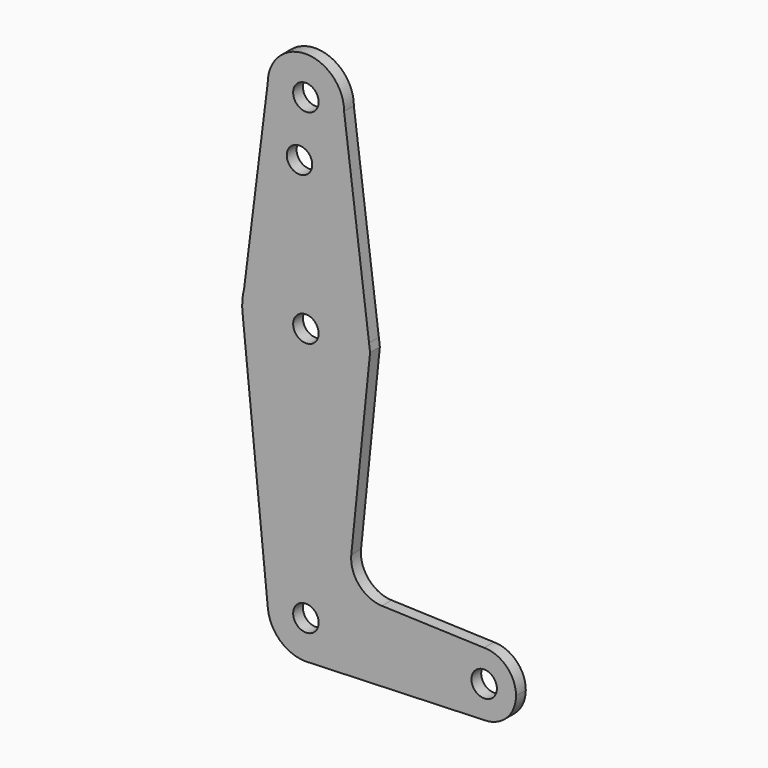
from build123d import *

# Parameters (mm, degrees)
F0_R     = 3.175
F1_DEPTH = 3.048


with BuildPart() as f1:
    # F0 (on Front) → F1 (new body)
    with BuildSketch(Plane.XZ):
        with BuildLine():
            ThreePointArc((-9.525, 114.3), (0, 104.775), (9.525, 114.3))
            ThreePointArc((9.525, 114.3), (0, 123.825), (-9.525, 114.3))
        make_face()
        with Locations((0, 114.3)):
            Circle(F0_R, mode=Mode.SUBTRACT)
        with BuildLine():
            Line((15.747457, 65.508289), (9.525, 114.3))
            ThreePointArc((9.525, 114.3), (0, 104.775), (-9.525, 114.3))
            Line((-9.525, 114.3), (-15.386538, 67.407692))
            ThreePointArc((-15.386538, 67.407692), (0.966695, 79.34554), (15.747457, 65.508289))
        make_face()
        with Locations((-1.5875, 100.0252)):
            Circle(F0_R, mode=Mode.SUBTRACT)
        with BuildLine():
            Line((16.003576, 63.5), (15.747457, 65.508289))
            ThreePointArc((15.747457, 65.508289), (15.843082, 64.506167), (15.875, 63.5))
            ThreePointArc((15.875, 63.5), (0.794747, 47.644906), (-15.795426, 61.9125))
            Line((-15.795426, 61.9125), (-9.477255, -0.9525))
            ThreePointArc((-9.477255, -0.9525), (-0.476848, 9.513056), (9.525, 0))
            ThreePointArc((9.525, 0), (6.97129, -6.490511), (0.67949, -9.500732))
            Line((0.67949, -9.500732), (44.45, -7.9375))
            ThreePointArc((44.45, -7.9375), (36.5125, 0), (44.45, 7.9375))
            Line((44.45, 7.9375), (18.946068, 8.848355))
            ThreePointArc((18.946068, 8.848355), (13.235613, 11.570929), (11.32068, 17.600418))
            Line((11.32068, 17.600418), (16.003576, 63.5))
        make_face()
        with BuildLine():
            ThreePointArc((15.875, 63.5), (15.843082, 64.506167), (15.747457, 65.508289))
            ThreePointArc((15.747457, 65.508289), (0.966695, 79.34554), (-15.386538, 67.407692))
            Line((-15.386538, 67.407692), (-15.875, 63.5))
            ThreePointArc((-15.875, 63.5), (-15.855094, 62.705253), (-15.795426, 61.9125))
            ThreePointArc((-15.795426, 61.9125), (0.794747, 47.644906), (15.875, 63.5))
        make_face()
        with Locations((0, 63.5)):
            Circle(F0_R, mode=Mode.SUBTRACT)
        with BuildLine():
            Line((-15.875, 63.5), (-15.386538, 67.407692))
            ThreePointArc((-15.386538, 67.407692), (-15.752411, 65.469051), (-15.875, 63.5))
        make_face()
        with BuildLine():
            ThreePointArc((9.525, 0), (-0.476848, 9.513056), (-9.477255, -0.9525))
            ThreePointArc((-9.477255, -0.9525), (-6.389564, -7.063929), (0, -9.525))
            Line((0, -9.525), (0.67949, -9.500732))
            ThreePointArc((0.67949, -9.500732), (6.97129, -6.490511), (9.525, 0))
        make_face()
        Circle(F0_R, mode=Mode.SUBTRACT)
        with BuildLine():
            Line((0.67949, -9.500732), (0, -9.525))
            ThreePointArc((0, -9.525), (0.339962, -9.518931), (0.67949, -9.500732))
        make_face()
        with BuildLine():
            ThreePointArc((52.3875, 0), (50.06266, 5.61266), (44.45, 7.9375))
            ThreePointArc((44.45, 7.9375), (36.5125, 0), (44.45, -7.9375))
            ThreePointArc((44.45, -7.9375), (50.06266, -5.61266), (52.3875, 0))
        make_face()
        with Locations((44.45, 0)):
            Circle(F0_R, mode=Mode.SUBTRACT)
    extrude(amount=F1_DEPTH)


solid = f1.part
